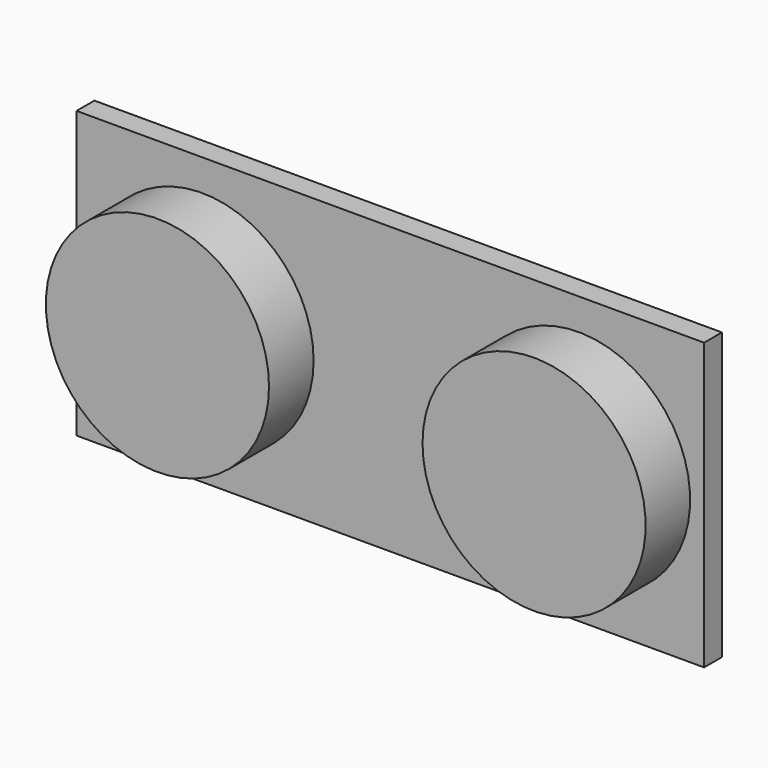
from build123d import *

# Parameters (mm, degrees)
F0_W     = 45
F0_H     = 20.5
F1_DEPTH = 1.6
F2_R     = 8
F3_DEPTH = 4
F4_DEPTH = 3.9878


with BuildPart() as f1:
    # F0 (on Front) → F1 (new body)
    with BuildSketch(Plane.XZ):
        Rectangle(F0_W, F0_H)
    extrude(amount=F1_DEPTH)

    # F2 (on face) → F3 (join)
    with BuildSketch(Plane.XZ.offset(1.6)):
        with Locations((-13.5, 0)):
            Circle(F2_R)
    extrude(amount=F3_DEPTH)

    # F2 (on face) → F4 (join)
    with BuildSketch(Plane.XZ.offset(1.6)):
        with BuildLine():
            ThreePointArc((21.5, 0), (13.5, 8), (5.5, 0))
            ThreePointArc((5.5, 0), (13.5, -8), (21.5, 0))
        make_face()
    extrude(amount=F4_DEPTH)


solid = f1.part
